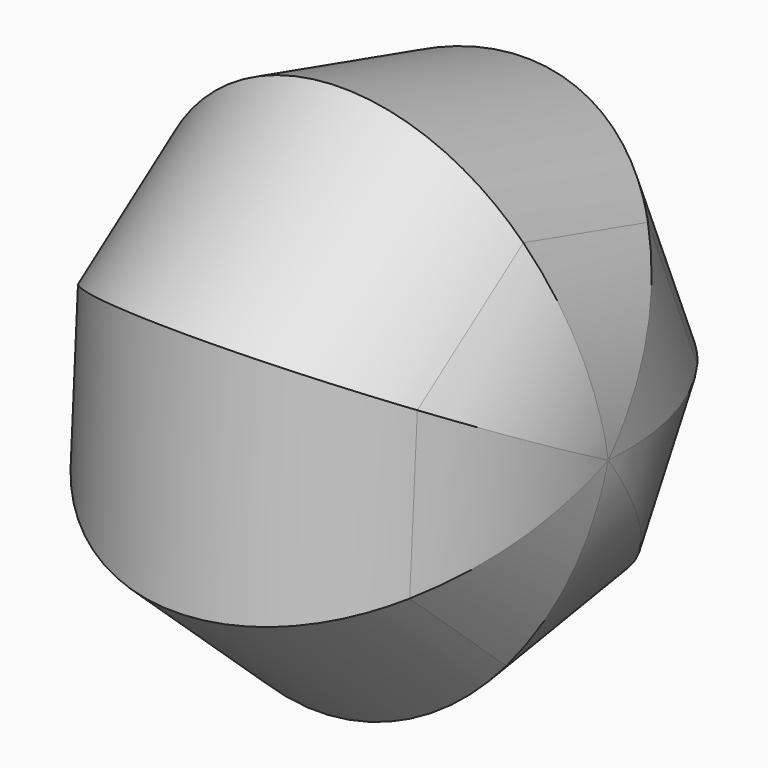
from build123d import *

# Parameters (mm, degrees)
F2_DEPTH = 112.776
F3_R     = 65.613496
F4_R     = 55.188922


with BuildPart() as f2:
    # F1 (on face) → F2 (new body)
    with BuildSketch(Plane.YZ):
        Polygon((42.206959, -59.798696), (73.068112, -4.285148), (48.907486, 54.455204), (-12.081474, 72.189677), (-63.972838, 35.563851), (-67.69135, -27.84228), (-20.436895, -70.282606), align=None)
    extrude(amount=F2_DEPTH)

    # F3
    f3_edges = [f2.edges().sort_by_distance(p)[0] for p in [
        (112.776, -44.064122, -49.062443),
        (112.776, 10.885032, -65.040651),
        (112.776, 57.637535, -32.041922),
        (112.776, 60.987799, 25.085028),
        (112.776, 18.413006, 63.32244),
        (112.776, -38.027156, 53.876764),
        (112.776, -65.832094, 3.860785),
    ]]
    fillet(f3_edges, radius=F3_R)

    # F4
    f4_edges = [f2.edges().sort_by_distance(p)[0] for p in [
        (0, -65.832094, 3.860785),
        (0, -38.027156, 53.876764),
        (0, 18.413006, 63.32244),
        (0, 60.987799, 25.085028),
        (0, 57.637535, -32.041922),
        (0, 10.885032, -65.040651),
        (0, -44.064122, -49.062443),
    ]]
    fillet(f4_edges, radius=F4_R)


solid = f2.part
